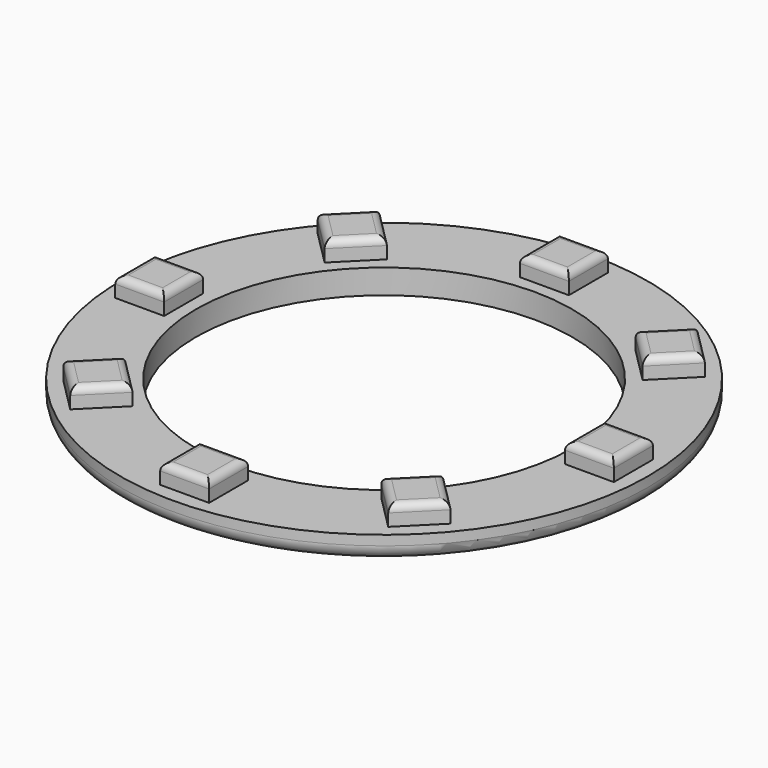
from build123d import *

# Parameters (mm, degrees)
F0_R     = 27
F0_R_2   = 19.25
F1_DEPTH = 2.5
F2_W     = 5
F2_H     = 5
F3_DEPTH = 2
F4_R     = 0.75
F5_R     = 1.5


with BuildPart() as f1:
    # F0 (on Top) → F1 (new body)
    with BuildSketch(Plane.XY):
        Circle(F0_R)
        Circle(F0_R_2, mode=Mode.SUBTRACT)
    extrude(amount=F1_DEPTH)

    # F2 (on face) → F3 (join)
    with BuildSketch(Plane.XY.offset(2.5)):
        with Locations((23, 0)):
            Rectangle(F2_W, F2_H)
        Polygon((19.79899, 16.263456), (16.263456, 19.79899), (12.727922, 16.263456), (16.263456, 12.727922), align=None)
        with Locations((0, 23)):
            Rectangle(F2_W, F2_H)
        Polygon((-16.263456, 19.79899), (-19.79899, 16.263456), (-16.263456, 12.727922), (-12.727922, 16.263456), align=None)
        with Locations((-23, 0)):
            Rectangle(F2_W, F2_H)
        Polygon((-19.79899, -16.263456), (-16.263456, -19.79899), (-12.727922, -16.263456), (-16.263456, -12.727922), align=None)
        with Locations((0, -23)):
            Rectangle(F2_W, F2_H)
        Polygon((16.263456, -19.79899), (19.79899, -16.263456), (16.263456, -12.727922), (12.727922, -16.263456), align=None)
    extrude(amount=F3_DEPTH)

    # F4
    f4_edges = [f1.edges().sort_by_distance(p)[0] for p in [
        (-25.5, 0, 4.5),
        (-23, -2.5, 4.5),
        (-20.5, 0, 4.5),
        (-23, 2.5, 4.5),
        (-18.031223, 18.031223, 4.5),
        (-18.031223, 14.495689, 4.5),
        (-14.495689, 14.495689, 4.5),
        (-14.495689, 18.031223, 4.5),
        (0, 25.5, 4.5),
        (-2.5, 23, 4.5),
        (0, 20.5, 4.5),
        (2.5, 23, 4.5),
        (18.031223, 18.031223, 4.5),
        (14.495689, 18.031223, 4.5),
        (14.495689, 14.495689, 4.5),
        (18.031223, 14.495689, 4.5),
        (23, -2.5, 4.5),
        (25.5, 0, 4.5),
        (23, 2.5, 4.5),
        (20.5, 0, 4.5),
        (18.031223, -18.031223, 4.5),
        (18.031223, -14.495689, 4.5),
        (14.495689, -14.495689, 4.5),
        (14.495689, -18.031223, 4.5),
        (0, -25.5, 4.5),
        (2.5, -23, 4.5),
        (0, -20.5, 4.5),
        (-2.5, -23, 4.5),
        (-18.031223, -18.031223, 4.5),
        (-14.495689, -18.031223, 4.5),
        (-14.495689, -14.495689, 4.5),
        (-18.031223, -14.495689, 4.5),
    ]]
    fillet(f4_edges, radius=F4_R)

    # F5
    f5_edges = [f1.edges().sort_by_distance(p)[0] for p in [
        (-27, 0, 0),
    ]]
    fillet(f5_edges, radius=F5_R)


solid = f1.part
